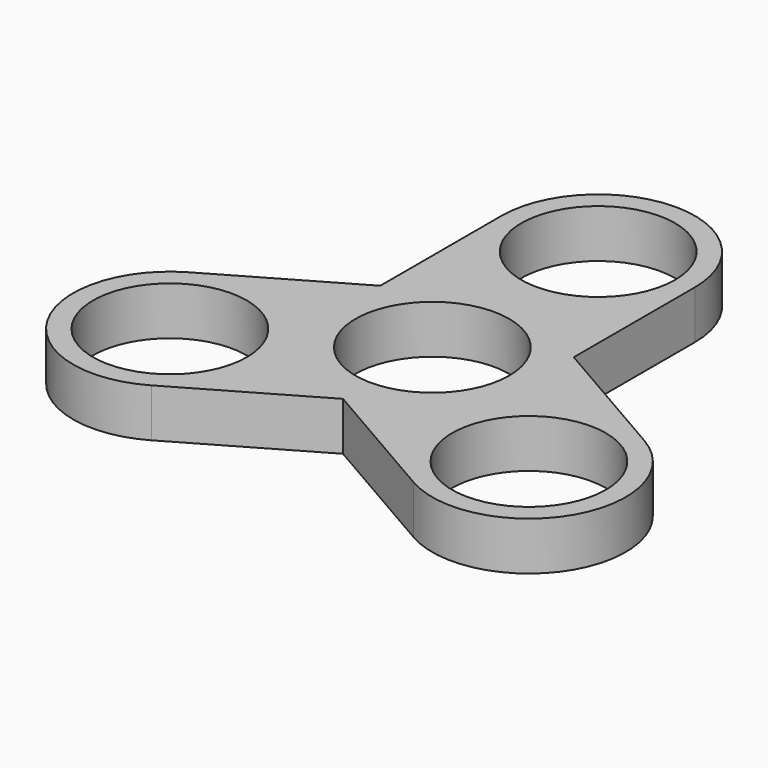
from build123d import *

# Parameters (mm, degrees)
F0_R     = 9.125
F1_DEPTH = 7
F2_R     = 11.125
F3_DEPTH = 7


with BuildPart() as f1:
    # F0 (on Top) → F1 (new body)
    with BuildSketch(Plane.XY):
        with BuildLine():
            ThreePointArc((14, 30), (0, 44), (-14, 30))
            Line((-14, 30), (-14, 8.082904))
            Line((-14, 8.082904), (-32.980762, -2.875644))
            ThreePointArc((-32.980762, -2.875644), (-38.105118, -22), (-18.980762, -27.124356))
            Line((-18.980762, -27.124356), (0, -16.165808))
            Line((0, -16.165808), (18.980762, -27.124356))
            ThreePointArc((18.980762, -27.124356), (38.105118, -22), (32.980762, -2.875644))
            Line((32.980762, -2.875644), (14, 8.082904))
            Line((14, 8.082904), (14, 30))
        make_face()
        with Locations((-25.980762, -15)):
            Circle(F0_R, mode=Mode.SUBTRACT)
        with Locations((25.980762, -15)):
            Circle(F0_R, mode=Mode.SUBTRACT)
        Circle(F0_R, mode=Mode.SUBTRACT)
        with Locations((0, 30)):
            Circle(F0_R, mode=Mode.SUBTRACT)
    extrude(amount=F1_DEPTH)

    # F2 (on face) → F3 (cut)
    with BuildSketch(Plane.XY.offset(7)):
        with Locations((0, 30)):
            Circle(F2_R)
        with Locations((25.980762, -15)):
            Circle(F2_R)
        with Locations((-25.980762, -15)):
            Circle(F2_R)
        Circle(F2_R)
    extrude(amount=-F3_DEPTH, mode=Mode.SUBTRACT)


solid = f1.part
